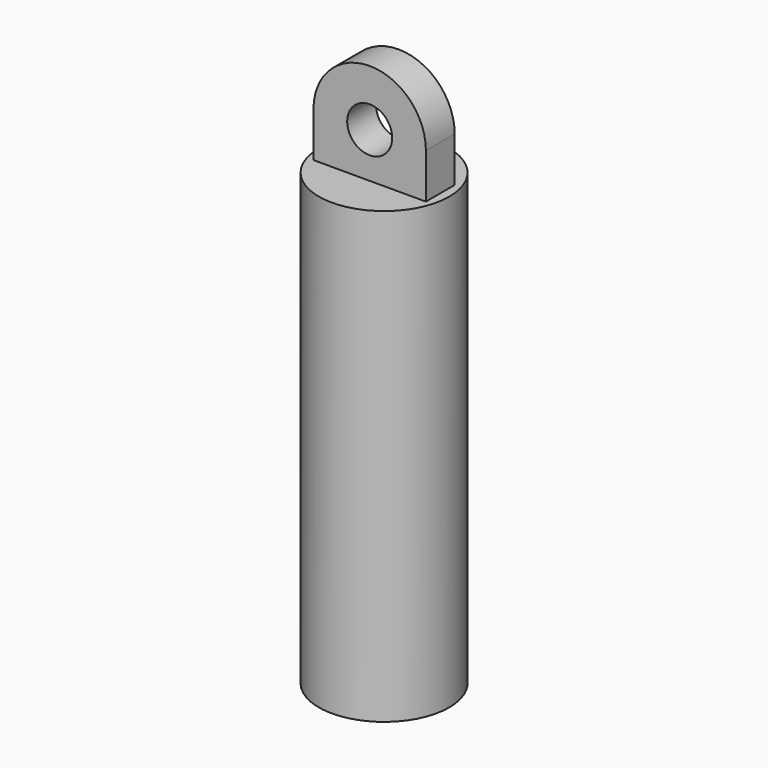
from build123d import *

# Parameters (mm, degrees)
F0_R     = 14.5
F1_DEPTH = 50
F2_W     = 25
F2_H     = 8
F3_DEPTH = 10
F5_DEPTH = 8
F6_R     = 5
F7_DEPTH = 25


with BuildPart() as f1:
    # F0 (on Top) → F1 (new body, symmetric)
    with BuildSketch(Plane.XY):
        Circle(F0_R)
    extrude(amount=F1_DEPTH, both=True)

    # F2 (on face) → F3 (join)
    with BuildSketch(Plane.XY.offset(50)):
        Rectangle(F2_W, F2_H)
    extrude(amount=F3_DEPTH)

    # F4 (on face) → F5 (join)
    with BuildSketch(Plane.XZ.offset(4)):
        with BuildLine():
            Line((-12.5, 60), (12.5, 60))
            ThreePointArc((12.5, 60), (0, 72.5), (-12.5, 60))
        make_face()
    extrude(amount=-F5_DEPTH)

    # F6 (on face) → F7 (cut)
    with BuildSketch(Plane.XZ.offset(4)):
        with Locations((0, 60)):
            Circle(F6_R)
    extrude(amount=-F7_DEPTH, mode=Mode.SUBTRACT)


solid = f1.part
